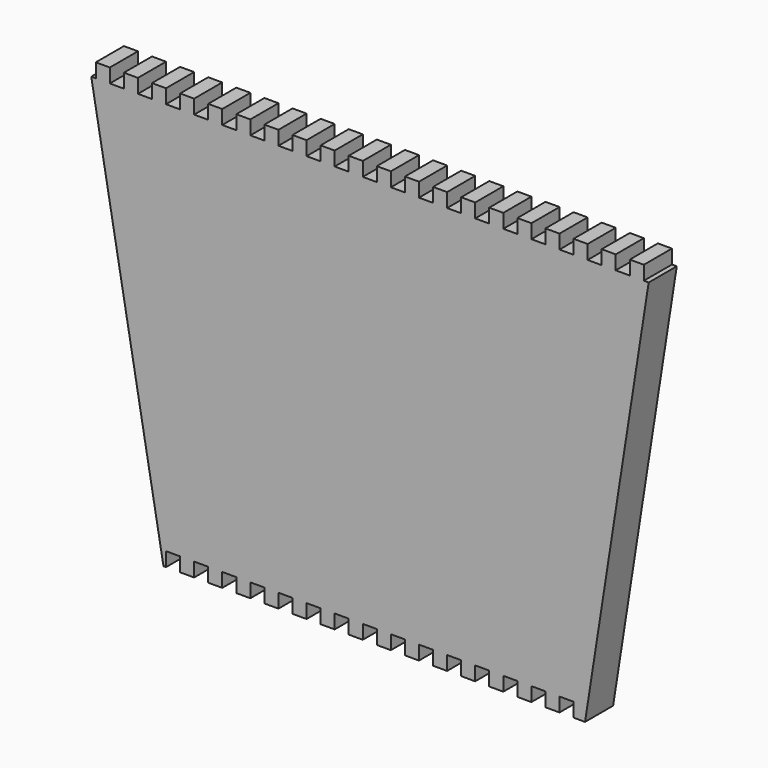
from build123d import *

# Parameters (mm, degrees)
F1_DEPTH = 25


with BuildPart() as f1:
    # F0 (on Front) → F1 (new body)
    with BuildSketch(Plane.XZ):
        Polygon((195, 140), (195, 150), (185, 150), (185, 140), (175, 140), (175, 150), (165, 150), (165, 140), (155, 140), (155, 150), (145, 150), (145, 140), (135, 140), (135, 150), (125, 150), (125, 140), (115, 140), (115, 150), (105, 150), (105, 140), (95, 140), (95, 150), (85, 150), (85, 140), (75, 140), (75, 150), (65, 150), (65, 140), (55, 140), (55, 150), (45, 150), (45, 140), (35, 140), (35, 150), (25, 150), (25, 140), (15, 140), (15, 150), (5, 150), (5, 140), (-5, 140), (-5, 150), (-15, 150), (-15, 140), (-25, 140), (-25, 150), (-35, 150), (-35, 140), (-45, 140), (-45, 150), (-55, 150), (-55, 140), (-65, 140), (-65, 150), (-75, 150), (-75, 140), (-85, 140), (-85, 150), (-95, 150), (-95, 140), (-105, 140), (-105, 150), (-115, 150), (-115, 140), (-125, 140), (-125, 150), (-135, 150), (-135, 140), (-145, 140), (-145, 150), (-155, 150), (-155, 140), (-165, 140), (-165, 150), (-175, 150), (-175, 140), (-185, 140), (-185, 150), (-195, 150), (-195, 140), (-198.227562, 140), (-146.826875, -150), (-145, -150), (-145, -140), (-135, -140), (-135, -150), (-125, -150), (-125, -140), (-115, -140), (-115, -150), (-105, -150), (-105, -140), (-95, -140), (-95, -150), (-85, -150), (-85, -140), (-75, -140), (-75, -150), (-65, -150), (-65, -140), (-55, -140), (-55, -150), (-45, -150), (-45, -140), (-35, -140), (-35, -150), (-25, -150), (-25, -140), (-15, -140), (-15, -150), (-5, -150), (-5, -140), (5, -140), (5, -150), (15, -150), (15, -140), (25, -140), (25, -150), (35, -150), (35, -140), (45, -140), (45, -150), (55, -150), (55, -140), (65, -140), (65, -150), (75, -150), (75, -140), (85, -140), (85, -150), (95, -150), (95, -140), (105, -140), (105, -150), (115, -150), (115, -140), (125, -140), (125, -150), (135, -150), (135, -140), (145, -140), (145, -150), (153.173125, -150), (198.439104, 140), align=None)
    extrude(amount=F1_DEPTH)


solid = f1.part
